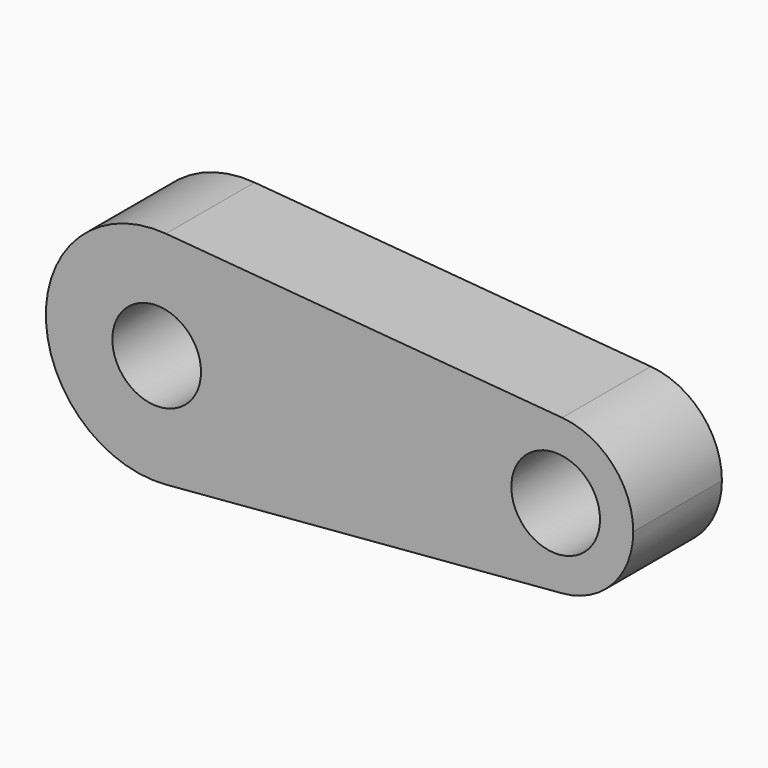
from build123d import *

# Parameters (mm, degrees)
F0_R     = 10
F1_DEPTH = 25


with BuildPart() as f1:
    # F0 (on Front) → F1 (new body)
    with BuildSketch(Plane.XZ):
        with BuildLine():
            ThreePointArc((107.5, 0), (102.879651, 11.847556), (91.458333, 17.43913))
            ThreePointArc((91.458333, 17.43913), (72.5, 0), (91.458333, -17.43913))
            ThreePointArc((91.458333, -17.43913), (102.879651, -11.847556), (107.5, 0))
        make_face()
        with Locations((90, 0)):
            Circle(F0_R, mode=Mode.SUBTRACT)
        with BuildLine():
            ThreePointArc((2.083333, 24.913043), (18.399502, 16.92508), (25, 0))
            ThreePointArc((25, 0), (18.399502, -16.92508), (2.083333, -24.913043))
            Line((2.083333, -24.913043), (91.458333, -17.43913))
            ThreePointArc((91.458333, -17.43913), (72.5, 0), (91.458333, 17.43913))
            Line((91.458333, 17.43913), (2.083333, 24.913043))
        make_face()
        with BuildLine():
            ThreePointArc((2.083333, -24.913043), (18.399502, -16.92508), (25, 0))
            ThreePointArc((25, 0), (18.399502, 16.92508), (2.083333, 24.913043))
            ThreePointArc((2.083333, 24.913043), (-25, 0), (2.083333, -24.913043))
        make_face()
        Circle(F0_R, mode=Mode.SUBTRACT)
    extrude(amount=F1_DEPTH)


solid = f1.part
